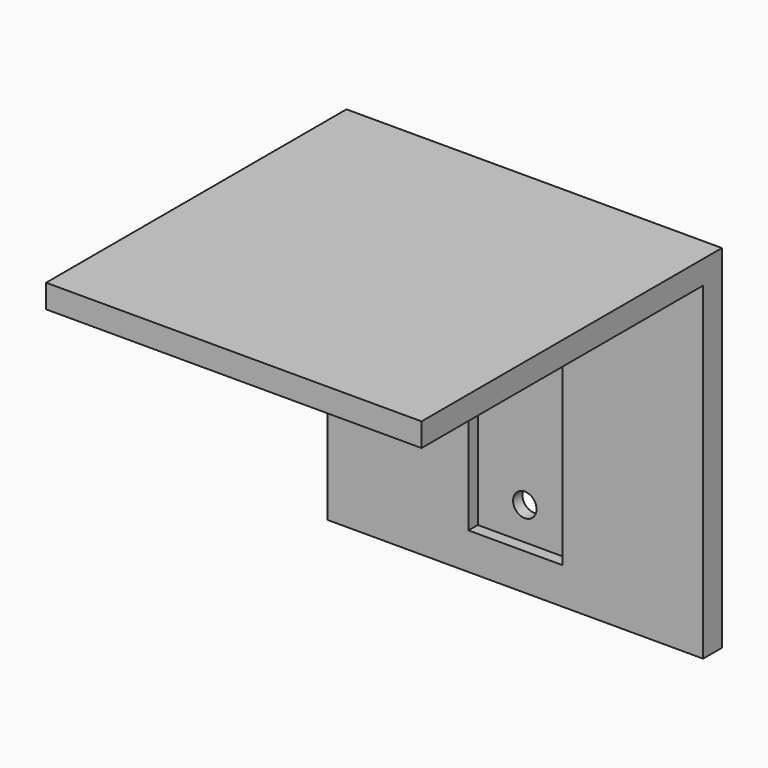
from build123d import *

# Parameters (mm, degrees)
F0_W     = 75
F0_H     = 5
F1_DEPTH = 80
F2_W     = 20
F2_H     = 50
F3_DEPTH = 2.5
F5_D     = 5


with BuildPart() as f1:
    # F0 (on Right) → F1 (new body)
    with BuildSketch(Plane.YZ):
        with Locations((-37.5, 2.5)):
            Rectangle(F0_W, F0_H)
        Polygon((5, 5), (0, 5), (0, 0), (0, -70), (5, -70), align=None)
    extrude(amount=F1_DEPTH)

    # F2 (on Front) → F3 (cut)
    with BuildSketch(Plane.XZ):
        with Locations((39.995763, -37.202657)):
            Rectangle(F2_W, F2_H)
    extrude(amount=-F3_DEPTH, mode=Mode.SUBTRACT)

    # F5 (through all)
    with Locations(Plane.XZ):
        with Locations((40.000014, -25.175888), (40.000014, -55.175888)):
            Hole(F5_D / 2)


solid = f1.part
